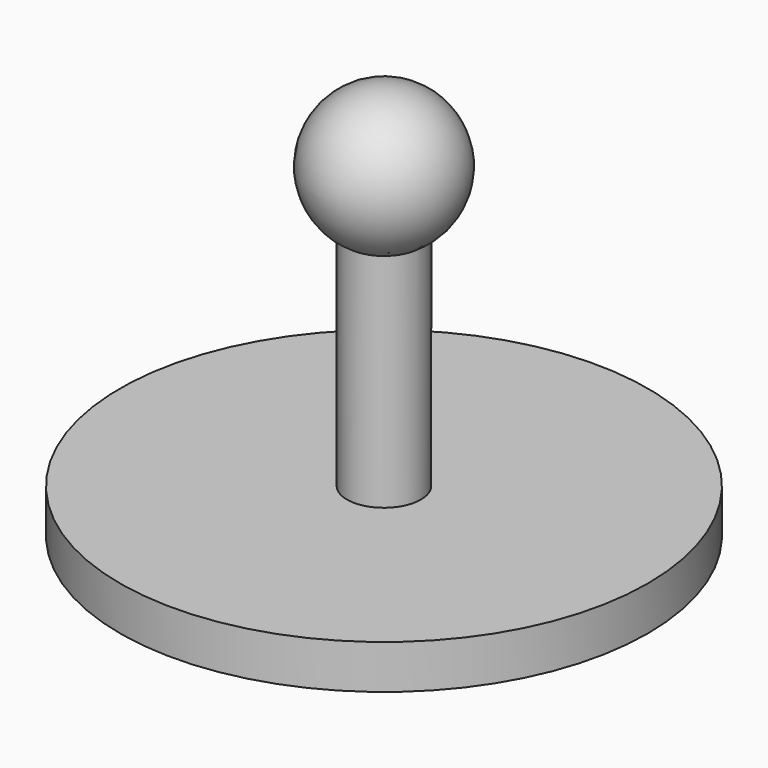
from build123d import *

# Parameters (mm, degrees)
F0_R     = 150
F1_DEPTH = 25
F2_R     = 21
F3_DEPTH = 160


with BuildPart() as f1:
    # F0 (on Top) → F1 (new body)
    with BuildSketch(Plane.XY):
        Circle(F0_R)
    extrude(amount=F1_DEPTH)

    # F2 (on face) → F3 (join)
    with BuildSketch(Plane.XY.offset(25)):
        Circle(F2_R)
    extrude(amount=F3_DEPTH)

    # F4 (on face) → F5 (revolve)
    with BuildSketch(Plane.XY.offset(185)):
        with BuildLine():
            Line((0, 21), (0, 40))
            ThreePointArc((0, 40), (-40, 0), (0, -40))
            Line((0, -40), (0, -21))
            ThreePointArc((0, -21), (-21, 0), (0, 21))
        make_face()
        with BuildLine():
            Line((0, -21), (0, 21))
            ThreePointArc((0, 21), (-21, 0), (0, -21))
        make_face()
    revolve(axis=Axis((0, 0, 185), (0, 1, 0)))


solid = f1.part
